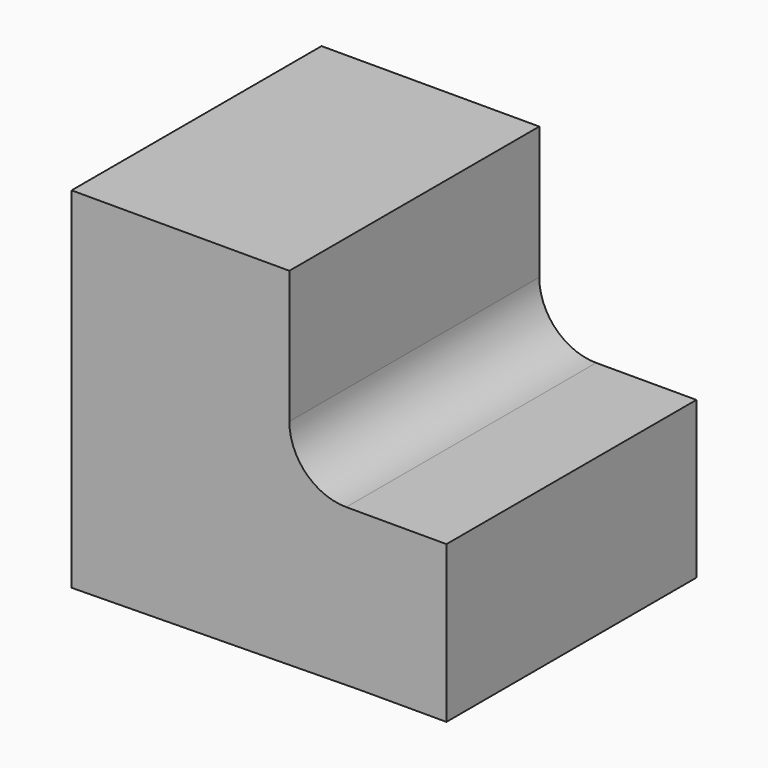
from build123d import *

# Parameters (mm, degrees)
F1_DEPTH = 5000


with BuildPart() as f1:
    # F0 (on Front) → F1 (new body)
    with BuildSketch(Plane.XZ):
        with BuildLine():
            Line((2866.097939, 5538.735365), (-618.902061, 5538.735365))
            Line((-618.902061, 5538.735365), (-618.902061, -61.264635))
            Line((-618.902061, -61.264635), (3970.689058, 0))
            Line((3970.689058, 0), (4880.689058, 0))
            Line((4880.689058, 0), (5380.689058, 0))
            Line((5380.689058, 0), (5380.689058, 2505))
            Line((5380.689058, 2505), (5090.689058, 2505))
            Line((5090.689058, 2505), (4800.689058, 2505))
            Line((4800.689058, 2505), (4510.689058, 2505))
            Line((4510.689058, 2505), (4288.393499, 2505))
            Line((4288.393499, 2505), (4220.689058, 2505))
            Line((4220.689058, 2505), (3776.097939, 2505))
            ThreePointArc((3776.097939, 2505), (3132.630768, 2771.532829), (2866.097939, 3415))
            Line((2866.097939, 3415), (2866.097939, 3798.735365))
            Line((2866.097939, 3798.735365), (2866.097939, 4088.735365))
            Line((2866.097939, 4088.735365), (2866.097939, 4378.735365))
            Line((2866.097939, 4378.735365), (2866.097939, 4668.735365))
            Line((2866.097939, 4668.735365), (2866.097939, 4958.735365))
            Line((2866.097939, 4958.735365), (2866.097939, 5248.735365))
            Line((2866.097939, 5248.735365), (2866.097939, 5538.735365))
        make_face()
    extrude(amount=F1_DEPTH)


solid = f1.part
